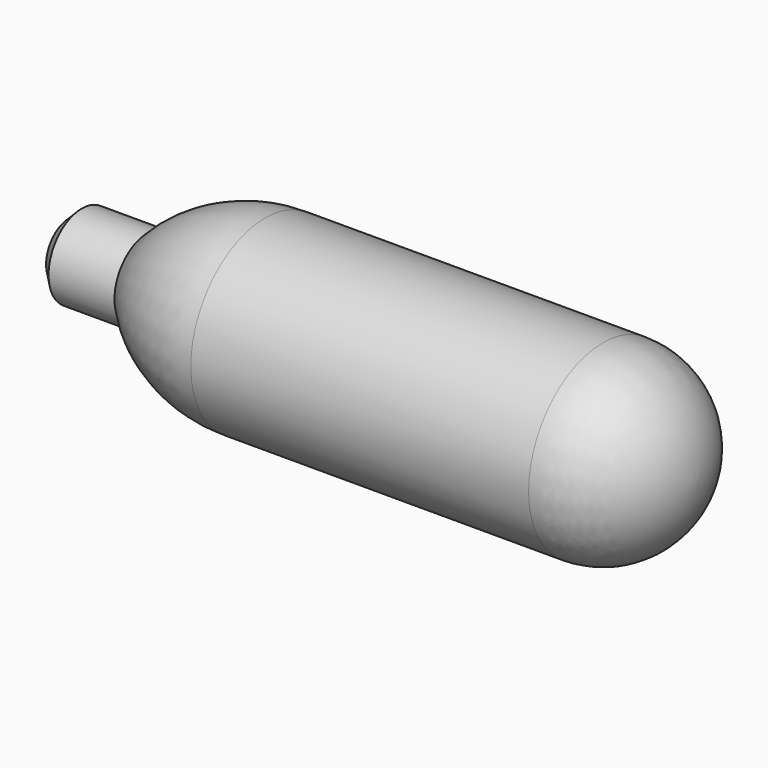
from build123d import *

# Parameters (mm, degrees)
F2_SIZE = 1.27


with BuildPart() as f1:
    # F0 (on Front) → F1 (revolve)
    with BuildSketch(Plane.XZ):
        with BuildLine():
            Line((0, 3.742), (0, 0))
            Line((0, 0), (64.008, 0))
            ThreePointArc((64.008, 0), (61.225632, 6.717232), (54.5084, 9.4996))
            Line((54.5084, 9.4996), (32.004, 9.4996))
            Line((32.004, 9.4996), (20.0025, 9.4996))
            ThreePointArc((20.0025, 9.4996), (13.4528, 8.129796), (8.001, 4.25))
            Line((8.001, 4.25), (0, 4.25))
            Line((0, 4.25), (0, 3.742))
        make_face()
    revolve(axis=Axis((32.004, 0, 0), (1, 0, 0)))

    # F2
    f2_edges = [f1.edges().sort_by_distance(p)[0] for p in [
        (0, 0, -4.25),
    ]]
    chamfer(f2_edges, length=F2_SIZE)


solid = f1.part
